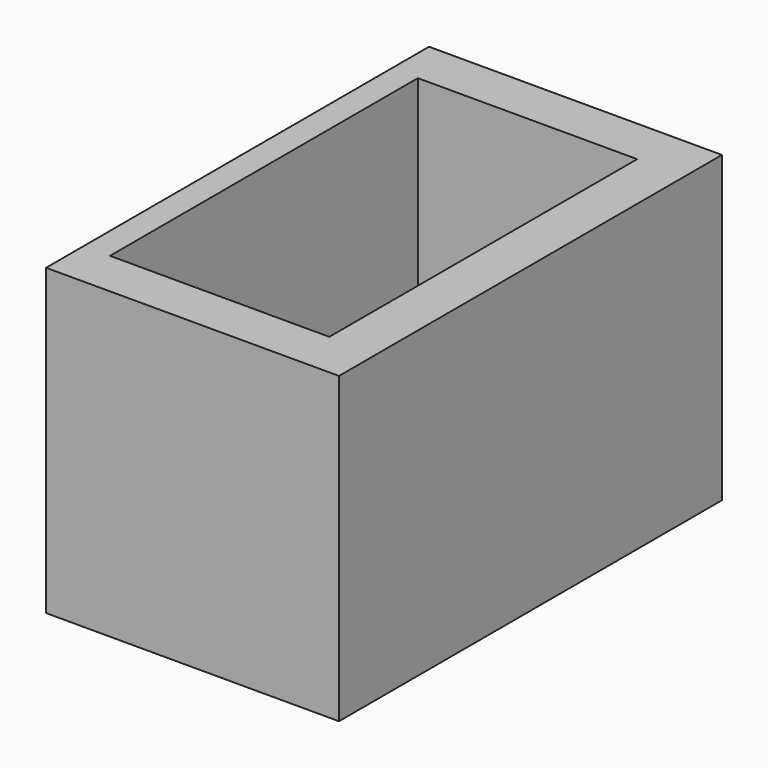
from build123d import *

# Parameters (mm, degrees)
F1_DEPTH = 50.8
F2_W     = 23.278505
F2_H     = 40.840704
F3_DEPTH = 20


with BuildPart() as f1:
    # F0 (on Front) → F1 (new body)
    with BuildSketch(Plane.XZ):
        Polygon((0, 32.265797), (0, 31.234473), (0, 24.604514), (0, 0), (31.087115, 0), (31.087115, 32.265797), align=None)
    extrude(amount=F1_DEPTH)

    # F2 (on face) → F3 (cut)
    with BuildSketch(Plane.XY.offset(32.265797)):
        with Locations((14.4386, -25.4)):
            Rectangle(F2_W, F2_H)
    extrude(amount=-F3_DEPTH, mode=Mode.SUBTRACT)


solid = f1.part
